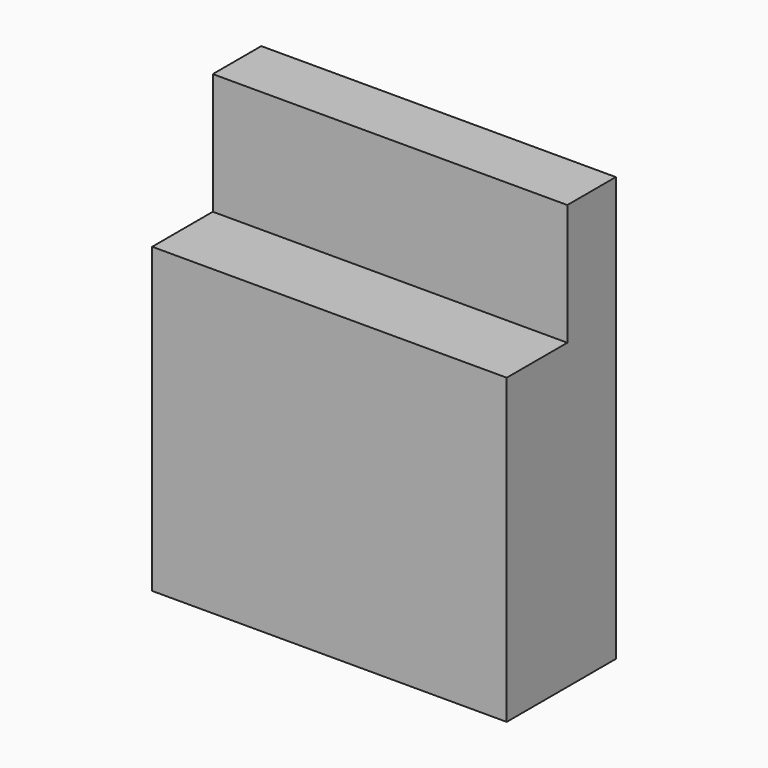
from build123d import *

# Parameters (mm, degrees)
F0_W     = 11.7
F0_H     = 14
F1_DEPTH = 2
F2_W     = 2.5
F2_H     = 10
F3_DEPTH = 11.7


with BuildPart() as f1:
    # F0 (on Front) → F1 (new body)
    with BuildSketch(Plane.XZ):
        Rectangle(F0_W, F0_H)
    extrude(amount=F1_DEPTH)

    # F2 (on face) → F3 (join)
    with BuildSketch(Plane.YZ.offset(5.85)):
        with Locations((-3.25, -2)):
            Rectangle(F2_W, F2_H)
    extrude(amount=-F3_DEPTH)


solid = f1.part
